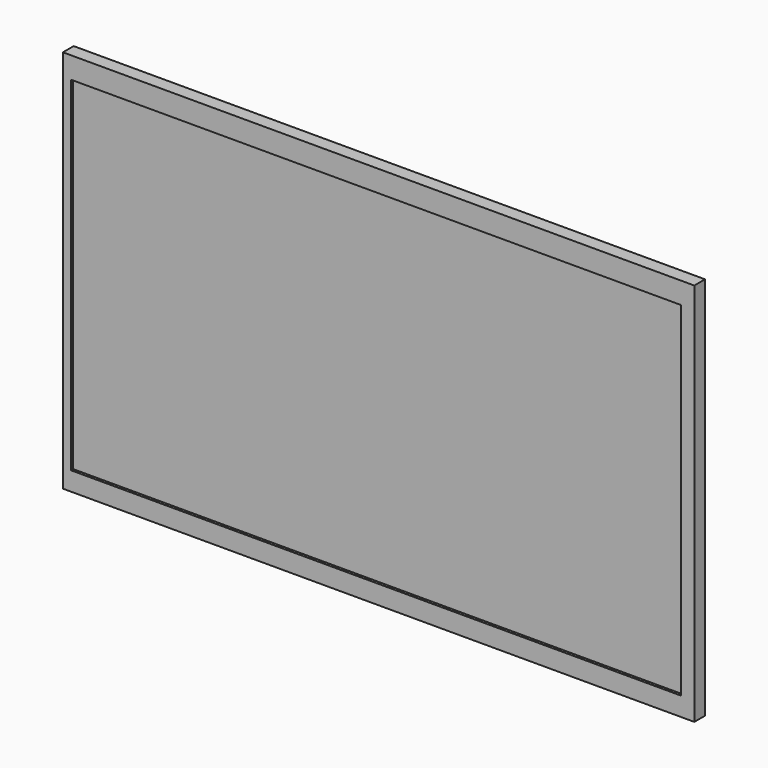
from build123d import *

# Parameters (mm, degrees)
F0_W     = 235
F0_H     = 143
F0_W_2   = 227
F0_H_2   = 128
F1_DEPTH = 5
F2_W     = 227
F2_H     = 128
F3_DEPTH = 4
F4_W     = 25
F4_H     = 20
F5_DEPTH = 20


with BuildPart() as f1:
    # F0 (on Front) → F1 (new body)
    with BuildSketch(Plane.XZ):
        with Locations((117.5, 71.5)):
            Rectangle(F0_W, F0_H)
        with Locations((116.5, 71)):
            Rectangle(F0_W_2, F0_H_2, mode=Mode.SUBTRACT)
    extrude(amount=F1_DEPTH)

    # F2 (on Front) → F3 (join)
    with BuildSketch(Plane.XZ):
        with Locations((116.5, 71)):
            Rectangle(F2_W, F2_H)
    extrude(amount=F3_DEPTH)

    # F4 (on face) → F5 (join)
    with BuildSketch(Plane(origin=(0, 0, 0), x_dir=(-1, 0, 0), z_dir=(0, 1, 0))):
        with Locations((-157.5, 20)):
            Rectangle(F4_W, F4_H)
    extrude(amount=F5_DEPTH)


solid = f1.part
